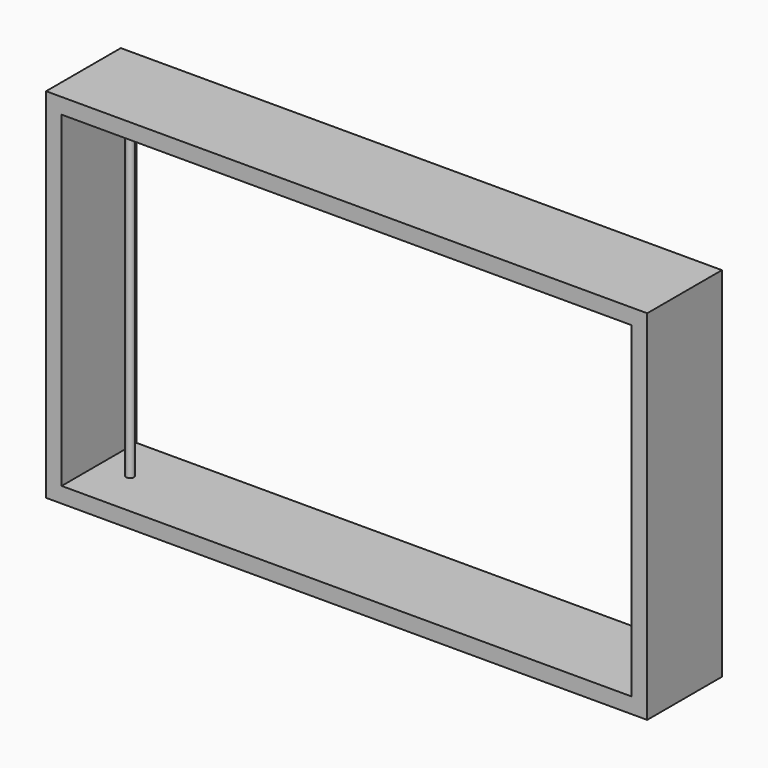
from build123d import *

# Parameters (mm, degrees)
F0_W     = 490.474
F0_H     = 292.1
F0_W_2   = 465.074
F0_H_2   = 266.7
F1_DEPTH = 38.1
F2_R     = 3.175
F3_DEPTH = 292.354


with BuildPart() as f1:
    # F0 (on Front) → F1 (new body, symmetric)
    with BuildSketch(Plane.XZ):
        Rectangle(F0_W, F0_H)
        Rectangle(F0_W_2, F0_H_2, mode=Mode.SUBTRACT)
    extrude(amount=F1_DEPTH, both=True)

    # F2 (on face) → F3 (join)
    with BuildSketch(Plane.XY.offset(146.05)):
        with Locations((-207.137, 0)):
            Circle(F2_R)
    extrude(amount=-F3_DEPTH)


solid = f1.part
